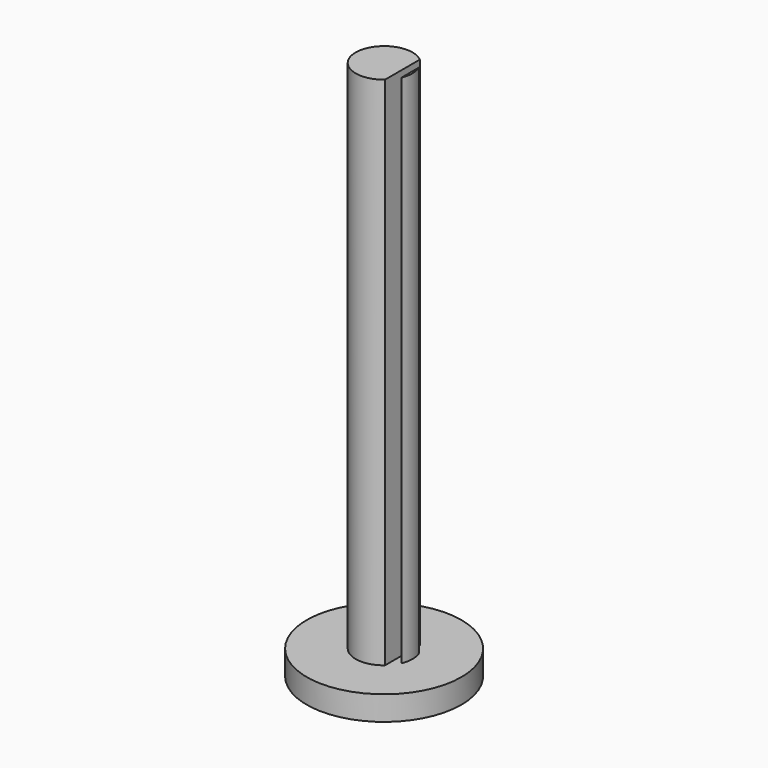
from build123d import *

# Parameters (mm, degrees)
F0_R     = 9.525
F1_DEPTH = 3
F2_R     = 3.5
F3_DEPTH = 63.5
F4_W     = 0.965913
F4_H     = 11.590985
F5_DEPTH = 63.5


with BuildPart() as f1:
    # F0 (on Top) → F1 (new body)
    with BuildSketch(Plane.XY):
        Circle(F0_R)
    extrude(amount=F1_DEPTH)

    # F2 (on face) → F3 (join)
    with BuildSketch(Plane.XY.offset(3)):
        Circle(F2_R)
    extrude(amount=F3_DEPTH)

    # F4 (on face) → F5 (cut)
    with BuildSketch(Plane.XY.offset(66.5)):
        with Locations((2.736762, -0.194345)):
            Rectangle(F4_W, F4_H)
    extrude(amount=-F5_DEPTH, mode=Mode.SUBTRACT)


solid = f1.part
